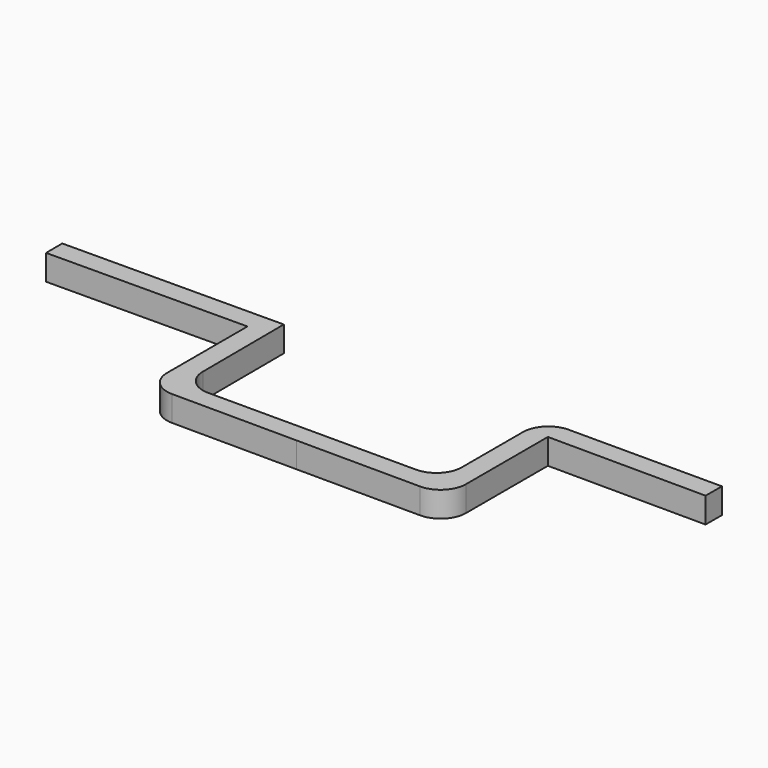
from build123d import *

# Parameters (mm, degrees)
F1_DEPTH = 5


with BuildPart() as f1:
    # F0 (on Top) → F1 (new body)
    with BuildSketch(Plane.XY):
        with BuildLine():
            Line((57.326982, 10.562097), (57.343873, 14.562062))
            Line((57.343873, 14.562062), (27.273512, 14.562062))
            Line((27.273512, 14.562062), (27.230023, 14.562062))
            ThreePointArc((27.230023, 14.562062), (23.694489, 13.097596), (22.230023, 9.562062))
            Line((22.230023, 9.562062), (22.230023, -5.437938))
            ThreePointArc((22.230023, -5.437938), (20.765557, -8.973472), (17.230023, -10.437938))
            Line((17.230023, -10.437938), (-23.672913, -10.437938))
            ThreePointArc((-23.672913, -10.437938), (-27.199862, -8.982036), (-28.672854, -5.462189))
            Line((-28.672854, -5.462189), (-28.769977, 14.562062))
            Line((-28.769977, 14.562062), (-72.146457, 14.351674))
            Line((-72.146457, 14.351674), (-72.127056, 10.351721))
            Line((-72.127056, 10.351721), (-32.709349, 10.562097))
            Line((-32.709349, 10.562097), (-32.709349, -9.210112))
            ThreePointArc((-32.709349, -9.210112), (-31.25234, -12.738173), (-27.730463, -14.210067))
            Line((-27.730463, -14.210067), (-3.209349, -14.313618))
            Line((-3.209349, -14.313618), (21.208908, -14.416734))
            ThreePointArc((21.208908, -14.416734), (24.758084, -12.95977), (26.230023, -9.416779))
            Line((26.230023, -9.416779), (26.230023, 10.693417))
            Line((26.230023, 10.693417), (57.326982, 10.562097))
        make_face()
    extrude(amount=F1_DEPTH)


solid = f1.part
